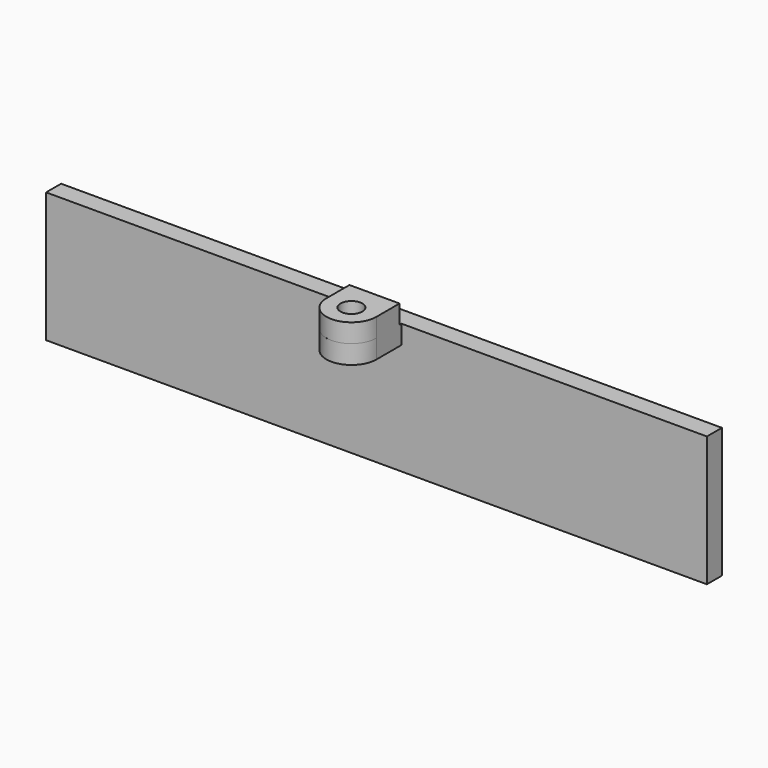
from build123d import *

# Parameters (mm, degrees)
SKETCH015_W  = 105.6
SKETCH015_H  = 20.8
PAD005_DEPTH = 3
SKETCH016_R  = 3
PAD006_DEPTH = 3
SKETCH017_R  = 1.75
PAD007_DEPTH = 3


with BuildPart() as part:
    # Sketch015 → Pad005 (new body)
    with BuildSketch(Plane.XZ.offset(-104)):
        with Locations((96.000001, 16.4)):
            Rectangle(SKETCH015_W, SKETCH015_H)
    extrude(amount=PAD005_DEPTH)

    # Sketch016 (on Face1 of Pad005) → Pad006 (join)
    with BuildSketch(Plane(origin=(0, 0, 26.8), x_dir=(-1, 0, 0), z_dir=(0, 0, 1))):
        with BuildLine():
            ThreePointArc((-92.000001, -96.00002), (-95.999992, -92), (-100.000001, -96.000001))
            Line((-100.000001, -96.000001), (-100.000001, -101))
            Line((-100.000001, -101), (-92.000001, -101))
            Line((-92.000001, -96.00002), (-92.000001, -101))
        make_face()
        with Locations((-96.000001, -96)):
            Circle(SKETCH016_R, mode=Mode.SUBTRACT)
    extrude(amount=-PAD006_DEPTH)

    # Sketch017 (on Face11 of Pad006) → Pad007 (join)
    with BuildSketch(Plane(origin=(0, 0, 26.8), x_dir=(-1, 0, 0), z_dir=(0, 0, 1))):
        with BuildLine():
            Line((-92.000001, -96.00002), (-92.000001, -100.60001))
            Line((-92.000001, -100.60001), (-100.000001, -100.6))
            Line((-100.000001, -100.6), (-100.000001, -96.000001))
            ThreePointArc((-92.000001, -96.00002), (-95.999992, -92.000035), (-100.000001, -96.000001))
        make_face()
        with Locations((-96.000001, -96)):
            Circle(SKETCH017_R, mode=Mode.SUBTRACT)
    extrude(amount=PAD007_DEPTH)


solid = part.part
